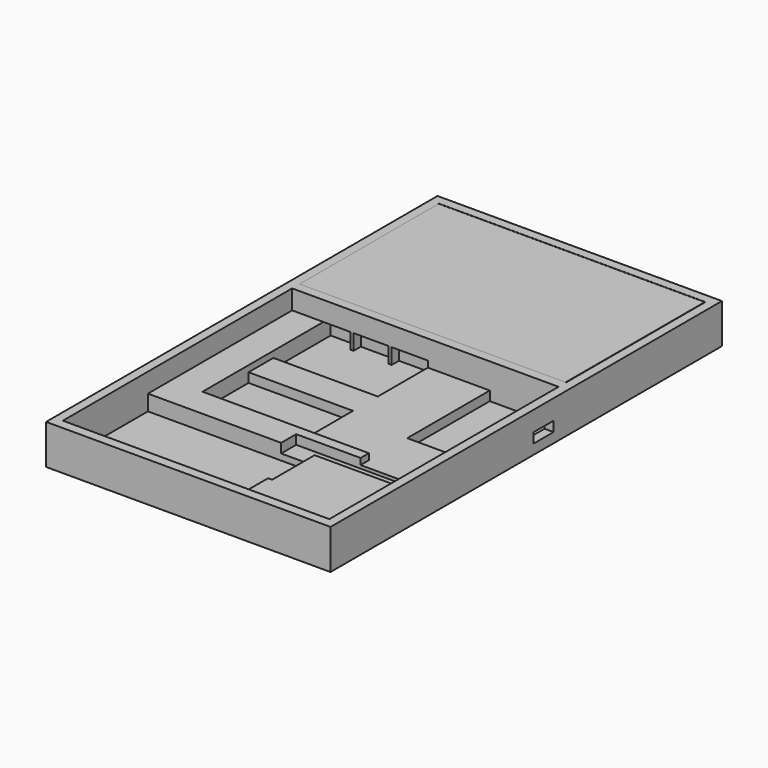
from build123d import *

# Parameters (mm, degrees)
SKETCH_W           = 85.2
SKETCH_H           = 55.7
PAD_DEPTH          = 12.7
SKETCH001_W        = 90.96
SKETCH001_H        = 156.45
PAD001_DEPTH       = 12.7
SKETCH002_W        = 85.2
SKETCH002_H        = 91.6346183773
POCKET_DEPTH       = 6.2
SKETCH003_W        = 52
SKETCH003_H        = 34
POCKET001_DEPTH    = 5
SKETCH004_W        = 22
SKETCH004_H        = 33
POCKET002_DEPTH    = 5
SKETCH005_W        = 8
SKETCH005_H        = 3.2
POCKET003_DEPTH    = 2.88
SKETCH006_W        = 17
SKETCH006_H        = 5
POCKET004_DEPTH    = 1.3
SKETCH007_W        = 42.6
SKETCH007_H        = 6
POCKET005_DEPTH    = 3
SKETCH008_W        = 22
SKETCH008_H        = 18.6346183773
POCKET006_DEPTH    = 2
SKETCH010_W        = 33.4
SKETCH010_H        = 18.4
POCKET007_DEPTH    = 5
SKETCH011_W        = 19.8
SKETCH011_H        = 48.3178648155
POCKET008_DEPTH    = 2
SKETCH012_W        = 33.4
SKETCH012_H        = 29.9178648155
POCKET009_DEPTH    = 2
SKETCH013_W        = 33.4
SKETCH013_H        = 20
POCKET010_DEPTH    = 3
SKETCH014_W        = 85.2
SKETCH014_H        = 55.7
POCKET011_DEPTH    = 11.2
POCKET011_FACE45_W = 33.4
POCKET011_FACE45_H = 3
POCKET012_DEPTH    = 3
POCKET012_FACE23_W = 33.4
POCKET012_FACE23_H = 2
POCKET013_DEPTH    = 3
SKETCH016_W        = 1
SKETCH016_H        = 3
PAD002_DEPTH       = 5
SKETCH015_W        = 1
SKETCH015_H        = 3
PAD003_DEPTH       = 5


with BuildPart() as screen:
    # Sketch → Pad (new body)
    with BuildSketch(Plane.XY):
        with Locations((-0.12, -0.1)):
            Rectangle(SKETCH_W, SKETCH_H)
    extrude(amount=PAD_DEPTH)


with BuildPart() as body001:
    # Sketch001 → Pad001 (new body)
    with BuildSketch(Plane.XY):
        with Locations((0, -47.375)):
            Rectangle(SKETCH001_W, SKETCH001_H)
    extrude(amount=PAD001_DEPTH)

    # Sketch002 (on Face6 of Pad001) → Pocket (cut)
    with BuildSketch(Plane.XY.offset(12.7)):
        with Locations((0, -76.6673091887)):
            Rectangle(SKETCH002_W, SKETCH002_H)
    extrude(amount=-POCKET_DEPTH, mode=Mode.SUBTRACT)

    # Sketch003 (on Face11 of Pocket) → Pocket001 (cut)
    with BuildSketch(Plane.XY.offset(6.5)):
        with Locations((-16.6, -105.4846183773)):
            Rectangle(SKETCH003_W, SKETCH003_H)
    extrude(amount=-POCKET001_DEPTH, mode=Mode.SUBTRACT)

    # Sketch004 (on Face12 of Pocket001) → Pocket002 (cut)
    with BuildSketch(Plane.XY.offset(6.5)):
        with Locations((31.6, -47.35)):
            Rectangle(SKETCH004_W, SKETCH004_H)
    extrude(amount=-POCKET002_DEPTH, mode=Mode.SUBTRACT)

    # Sketch005 (on Face14 of Pocket002) → Pocket003 (cut)
    with BuildSketch(Plane(origin=(42.6, 0, 0), x_dir=(0, -1, 0), z_dir=(-1, 0, 0))):
        with Locations((40.45, 4.77)):
            Rectangle(SKETCH005_W, SKETCH005_H)
    extrude(amount=-POCKET003_DEPTH, mode=Mode.SUBTRACT)

    # Sketch006 (on Face25 of Pocket003) → Pocket004 (cut)
    with BuildSketch(Plane(origin=(9.4, 0, 0), x_dir=(0, -1, 0), z_dir=(-1, 0, 0))):
        with Locations((96.9846183773, 4)):
            Rectangle(SKETCH006_W, SKETCH006_H)
    extrude(amount=-POCKET004_DEPTH, mode=Mode.SUBTRACT)

    # Sketch007 (on Face17 of Pocket004) → Pocket005 (cut)
    with BuildSketch(Plane.XY.offset(6.5)):
        with Locations((21.3, -85.4846183773)):
            Rectangle(SKETCH007_W, SKETCH007_H)
    extrude(amount=-POCKET005_DEPTH, mode=Mode.SUBTRACT)

    # Sketch008 (on Face17 of Pocket005) → Pocket006 (cut)
    with BuildSketch(Plane.XY.offset(6.5)):
        with Locations((31.6, -73.1673091887)):
            Rectangle(SKETCH008_W, SKETCH008_H)
    extrude(amount=-POCKET006_DEPTH, mode=Mode.SUBTRACT)

    # Sketch010 (on Face17 of Pocket006) → Pocket007 (cut)
    with BuildSketch(Plane.XY.offset(6.5)):
        with Locations((-15.9, -69.9678648155)):
            Rectangle(SKETCH010_W, SKETCH010_H)
    extrude(amount=-POCKET007_DEPTH, mode=Mode.SUBTRACT)

    # Sketch011 (on Face17 of Pocket007) → Pocket008 (cut)
    with BuildSketch(Plane.XY.offset(6.5)):
        with Locations((10.7, -55.0089324078)):
            Rectangle(SKETCH011_W, SKETCH011_H)
    extrude(amount=-POCKET008_DEPTH, mode=Mode.SUBTRACT)

    # Sketch012 (on Face17 of Pocket008) → Pocket009 (cut)
    with BuildSketch(Plane.XY.offset(6.5)):
        with Locations((-15.9, -45.8089324078)):
            Rectangle(SKETCH012_W, SKETCH012_H)
    extrude(amount=-POCKET009_DEPTH, mode=Mode.SUBTRACT)

    # Sketch013 (on Face42 of Pocket009) → Pocket010 (cut)
    with BuildSketch(Plane.XY.offset(4.5)):
        with Locations((-15.9, -40.85)):
            Rectangle(SKETCH013_W, SKETCH013_H)
    extrude(amount=-POCKET010_DEPTH, mode=Mode.SUBTRACT)

    # Sketch014 (on Face5 of Pocket010) → Pocket011 (cut)
    with BuildSketch(Plane.XY.offset(12.7)):
        Rectangle(SKETCH014_W, SKETCH014_H)
    extrude(amount=-POCKET011_DEPTH, mode=Mode.SUBTRACT)

    # Pocket011 Face45 → Pocket012 (cut)
    with BuildSketch(Plane(origin=(-15.9, -30.85, 3), x_dir=(-1, 0, 0), z_dir=(0, -1, 0))):
        Rectangle(POCKET011_FACE45_W, POCKET011_FACE45_H)
    extrude(amount=-POCKET012_DEPTH, mode=Mode.SUBTRACT)

    # Pocket012 Face23 → Pocket013 (cut)
    with BuildSketch(Plane(origin=(-15.9, -30.85, 5.5), x_dir=(-1, 0, 0), z_dir=(0, -1, 0))):
        Rectangle(POCKET012_FACE23_W, POCKET012_FACE23_H)
    extrude(amount=-POCKET013_DEPTH, mode=Mode.SUBTRACT)

    # Sketch016 (on Face53 of Pocket013) → Pad002 (join)
    with BuildSketch(Plane.XY.offset(1.5)):
        with Locations((-11.2686472875, -29.35)):
            Rectangle(SKETCH016_W, SKETCH016_H)
    extrude(amount=PAD002_DEPTH)

    # Sketch015 (on Face53 of Pocket013) → Pad003 (join)
    with BuildSketch(Plane.XY.offset(1.5)):
        with Locations((-23.4452128155, -29.35)):
            Rectangle(SKETCH015_W, SKETCH015_H)
    extrude(amount=PAD003_DEPTH)


solid = Compound([screen.part, body001.part])
